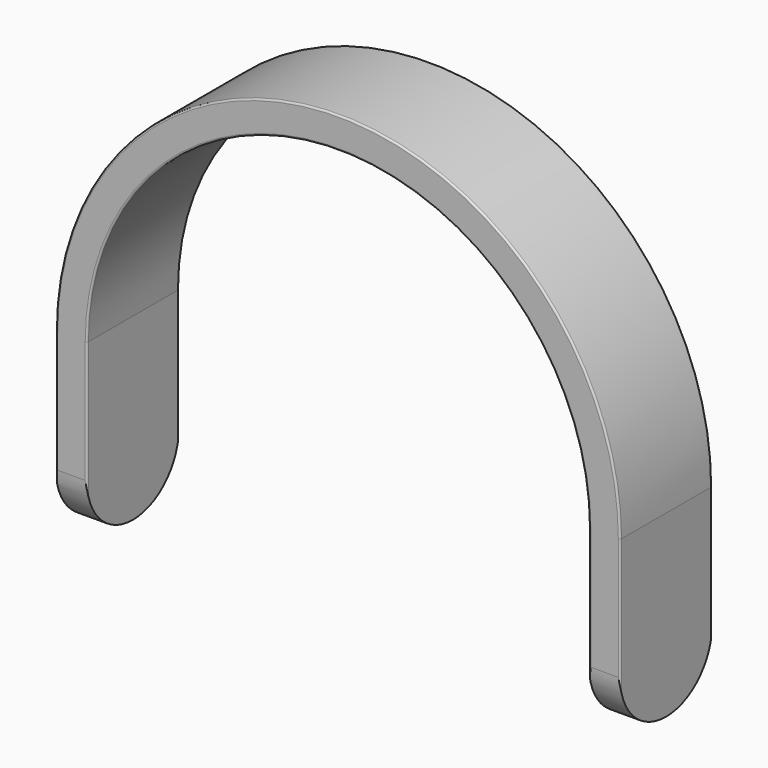
from build123d import *

# Parameters (mm, degrees)
F1_DEPTH = 16.2814
F2_R     = 0.254
F4_DEPTH = 25.4
F6_DEPTH = 79.9094


with BuildPart() as f1:
    # F0 (on Front) → F1 (new body)
    with BuildSketch(Plane.XZ):
        with BuildLine():
            Line((75.5142, 0), (79.9084, 0))
            ThreePointArc((79.9084, 0), (39.9542, 39.9542), (0, 0))
            Line((0, 0), (4.3942, 0))
            ThreePointArc((4.3942, 0), (39.9542, 35.56), (75.5142, 0))
        make_face()
    extrude(amount=F1_DEPTH)

    # F2
    f2_edges = [f1.edges().sort_by_distance(p)[0] for p in [
        (39.9542, -16.2814, 39.9542),
        (39.9542, -16.2814, 35.56),
        (39.9542, 0, 39.9542),
        (39.9542, 0, 35.56),
    ]]
    fillet(f2_edges, radius=F2_R)

    # F3 (on face) → F4 (join)
    with BuildSketch(Plane(origin=(0, 0, 0), x_dir=(1, 0, 0), z_dir=(0, 0, -1))):
        with BuildLine():
            ThreePointArc((0.254, 16.2814), (0.074395, 16.207005), (0, 16.0274))
            Line((0, 16.0274), (0, 0.254))
            ThreePointArc((0, 0.254), (0.074395, 0.074395), (0.254, 0))
            Line((0.254, 0), (4.1402, 0))
            ThreePointArc((4.1402, 0), (4.319805, 0.074395), (4.3942, 0.254))
            Line((4.3942, 0.254), (4.3942, 16.0274))
            ThreePointArc((4.3942, 16.0274), (4.319805, 16.207005), (4.1402, 16.2814))
            Line((4.1402, 16.2814), (0.254, 16.2814))
        make_face()
        with BuildLine():
            ThreePointArc((75.5142, 0.254), (75.588595, 0.074395), (75.7682, 0))
            Line((75.7682, 0), (79.6544, 0))
            ThreePointArc((79.6544, 0), (79.834005, 0.074395), (79.9084, 0.254))
            Line((79.9084, 0.254), (79.9084, 16.0274))
            ThreePointArc((79.9084, 16.0274), (79.834005, 16.207005), (79.6544, 16.2814))
            Line((79.6544, 16.2814), (75.7682, 16.2814))
            ThreePointArc((75.7682, 16.2814), (75.588595, 16.207005), (75.5142, 16.0274))
            Line((75.5142, 16.0274), (75.5142, 0.254))
        make_face()
    extrude(amount=F4_DEPTH)

    # F5 (on face) → F6 (cut, through all)
    with BuildSketch(Plane(origin=(0, 0, 0), x_dir=(0, -1, 0), z_dir=(-1, 0, 0))):
        with BuildLine():
            ThreePointArc((16.2814, -17.2593), (8.1407, -25.4), (0, -17.2593))
            Line((0, -17.2593), (0, -26.5704))
            Line((0, -26.5704), (16.2814, -26.5704))
            Line((16.2814, -26.5704), (16.2814, -17.2593))
        make_face()
    extrude(amount=-F6_DEPTH, mode=Mode.SUBTRACT)


solid = f1.part
